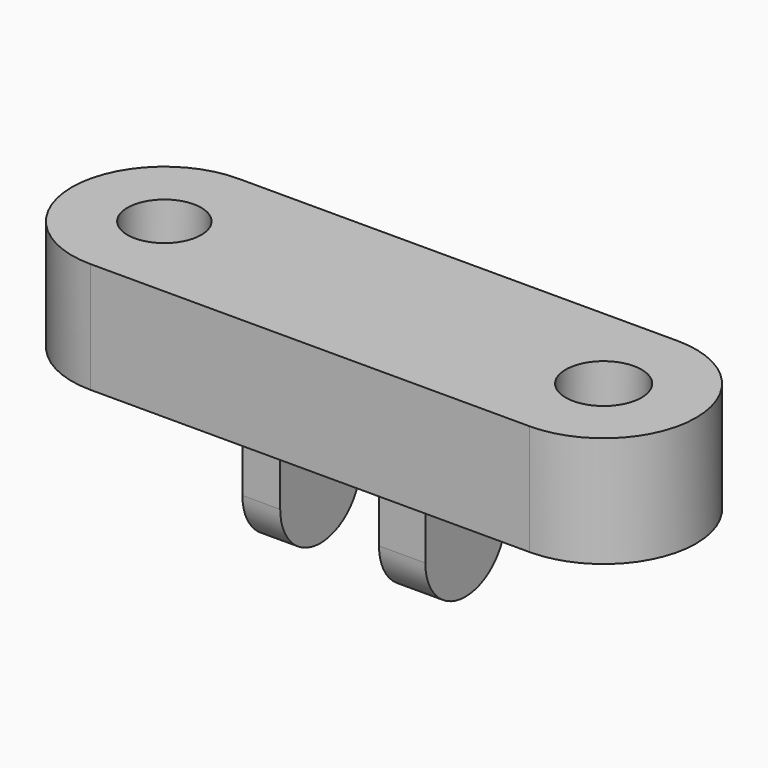
from build123d import *

# Parameters (mm, degrees)
F0_R     = 8.4622870675
F0_R_2   = 8.7058522528
F1_DEPTH = 25.4
F2_W     = 8.6757829413
F2_H     = 23.0149254203
F2_W_2   = 10.6037370861
F3_DEPTH = 16.002
F4_W     = 8.6757829413
F4_H     = 11.5074627101
F6_W     = 10.6037370861
F6_H     = 11.5074627101


with BuildPart() as f1:
    # F0 (on Top) → F1 (new body)
    with BuildSketch(Plane.XY):
        with BuildLine():
            Line((58.2000501454, 33.3776660264), (-42.5354391336, 33.3776660264))
            ThreePointArc((-42.5354391336, 33.3776660264), (-63.7429091148, 12.1701960452), (-42.5354391336, -9.037273936))
            Line((-42.5354391336, -9.037273936), (58.2000501454, -9.037273936))
            ThreePointArc((58.2000501454, -9.037273936), (79.4075201266, 12.1701960452), (58.2000501454, 33.3776660264))
        make_face()
        with Locations((-42.5354391336, 12.1701960452)):
            Circle(F0_R, mode=Mode.SUBTRACT)
        with Locations((58.2000501454, 12.1701960452)):
            Circle(F0_R_2, mode=Mode.SUBTRACT)
    extrude(amount=F1_DEPTH)

    # F2 (on Top) → F3 (join)
    with BuildSketch(Plane.XY):
        with Locations((-10.56643622, 11.5074627101)):
            Rectangle(F2_W, F2_H)
        with Locations((21.726757288, 11.5074627101)):
            Rectangle(F2_W_2, F2_H)
    extrude(amount=-F3_DEPTH)

    # F4 (on face) → F5 (revolve)
    with BuildSketch(Plane(origin=(0, 0, -16.002), x_dir=(1, 0, 0), z_dir=(0, 0, -1))):
        with Locations((-10.56643622, -5.7537313551)):
            Rectangle(F4_W, F4_H)
    revolve(axis=Axis((-10.56643622, 11.5074627101, -16.002), (1, 0, 0)))

    # F6 (on face) → F7 (revolve)
    with BuildSketch(Plane(origin=(0, 0, -16.002), x_dir=(1, 0, 0), z_dir=(0, 0, -1))):
        with Locations((21.726757288, -5.7537313551)):
            Rectangle(F6_W, F6_H)
    revolve(axis=Axis((21.726757288, 11.5074627101, -16.002), (1, 0, 0)))


solid = f1.part
